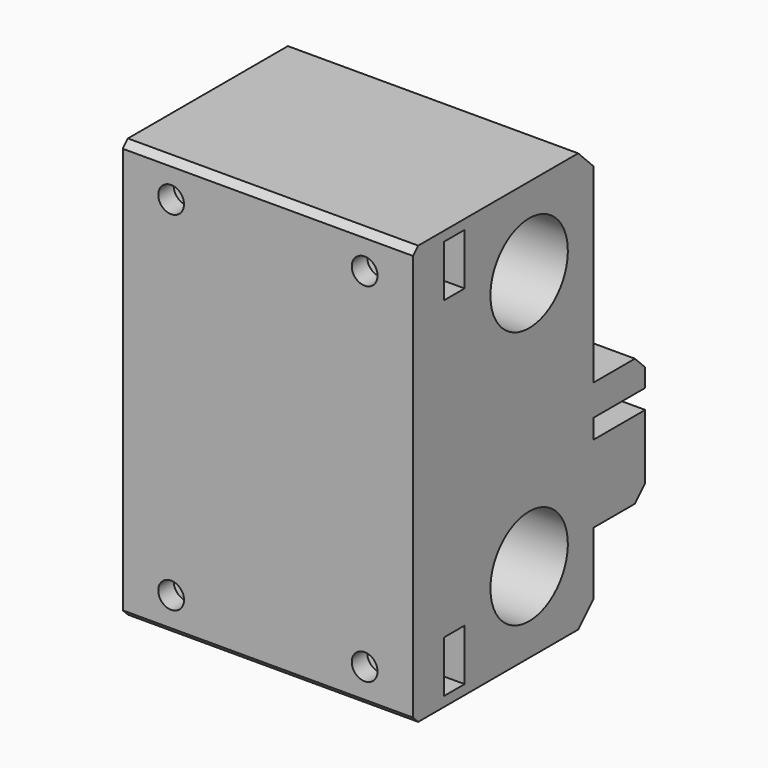
from build123d import *

# Parameters (mm, degrees)
SKETCH_W        = 45
SKETCH_H        = 65
PAD_DEPTH       = 35
SKETCH001_R     = 7.5
POCKET_DEPTH    = 45.001
SKETCH002_R     = 2
POCKET001_DEPTH = 6
SKETCH003_W     = 8
SKETCH003_H     = 4
POCKET002_DEPTH = 45.001
POCKET003_DEPTH = 3
SKETCH005_R     = 3
SKETCH005_W     = 45
SKETCH005_H     = 4.8
PAD001_DEPTH    = 10
CHAMFER_SIZE    = 1
CHAMFER001_SIZE = 3
CHAMFER002_SIZE = 2


with BuildPart() as part:
    # Sketch → Pad (new body)
    with BuildSketch(Plane.XZ):
        with Locations((22.5, 32.5)):
            Rectangle(SKETCH_W, SKETCH_H)
    extrude(amount=PAD_DEPTH)

    # Sketch001 (on Face2 of Pad) → Pocket (cut, through all)
    with BuildSketch(Plane(origin=(45, 0, 0), x_dir=(0, 0, 1), z_dir=(1, 0, 0))):
        with Locations((52.5, 12.5)):
            Circle(SKETCH001_R)
        with Locations((12.5, 12.5)):
            Circle(SKETCH001_R)
    extrude(amount=-POCKET_DEPTH, mode=Mode.SUBTRACT)

    # Sketch002 (on Face6 of Pad) → Pocket001 (cut)
    with BuildSketch(Plane.XZ.offset(35)):
        with Locations((7.5, 59.5)):
            Circle(SKETCH002_R)
        with Locations((37.5, 59.5)):
            Circle(SKETCH002_R)
        with Locations((7.5, 5.5)):
            Circle(SKETCH002_R)
        with Locations((37.5, 5.5)):
            Circle(SKETCH002_R)
    extrude(amount=-POCKET001_DEPTH, mode=Mode.SUBTRACT)

    # Sketch003 (on Face3 of Pocket001) → Pocket002 (cut, through all)
    with BuildSketch(Plane(origin=(45, 0, 0), x_dir=(0, 0, 1), z_dir=(1, 0, 0))):
        with Locations((5.5, 27)):
            Rectangle(SKETCH003_W, SKETCH003_H)
        with Locations((59.5, 27)):
            Rectangle(SKETCH003_W, SKETCH003_H)
    extrude(amount=-POCKET002_DEPTH, mode=Mode.SUBTRACT)

    # Sketch004 (on Face14 of Pocket002) → Pocket003 (cut)
    with BuildSketch(Plane(origin=(0, -29, 0), x_dir=(1, 0, 0), z_dir=(0, 1, 0))):
        Polygon((11.541452, -5.5), (9.520726, -2), (5.479274, -2), (3.458548, -5.5), (5.479274, -9), (9.520726, -9), align=None)
        Polygon((39.520726, -9), (41.541452, -5.5), (39.520726, -2), (35.479274, -2), (33.458548, -5.5), (35.479274, -9), align=None)
        Polygon((9.520726, -63), (11.541452, -59.5), (9.520726, -56), (5.479274, -56), (3.458548, -59.5), (5.479274, -63), align=None)
        Polygon((39.520726, -63), (41.541452, -59.5), (39.520726, -56), (35.479274, -56), (33.458548, -59.5), (35.479274, -63), align=None)
    extrude(amount=-POCKET003_DEPTH, mode=Mode.SUBTRACT)

    # Sketch005 (on Face4 of Pocket003) → Pad001 (join)
    with BuildSketch(Plane(origin=(0, 0, 0), x_dir=(1, 0, 0), z_dir=(0, 1, 0))):
        with Locations((27.5, -22.7)):
            Circle(SKETCH005_R)
        with Locations((17.5, -22.7)):
            Circle(SKETCH005_R)
        Polygon((45, -24.7), (45, -12.7), (0, -12.7), (0, -24.7), (7.5, -24.7), (14.5, -17.7), (30.5, -17.7), (37.5, -24.7), align=None)
        with Locations((22.5, -30.1)):
            Rectangle(SKETCH005_W, SKETCH005_H)
    extrude(amount=PAD001_DEPTH)

    # Chamfer
    chamfer_edges = [part.edges().sort_by_distance(p)[0] for p in [
        (22.5, -35, 65),
        (22.5, -35, 0),
    ]]
    chamfer(chamfer_edges, length=CHAMFER_SIZE)

    # Chamfer001
    chamfer001_edges = [part.edges().sort_by_distance(p)[0] for p in [
        (22.5, 0, 65),
        (22.5, 0, 0),
    ]]
    chamfer(chamfer001_edges, length=CHAMFER001_SIZE)

    # Chamfer002
    chamfer002_edges = [part.edges().sort_by_distance(p)[0] for p in [
        (22.5, 10, 32.5),
        (22.5, 10, 12.7),
    ]]
    chamfer(chamfer002_edges, length=CHAMFER002_SIZE)


solid = part.part
